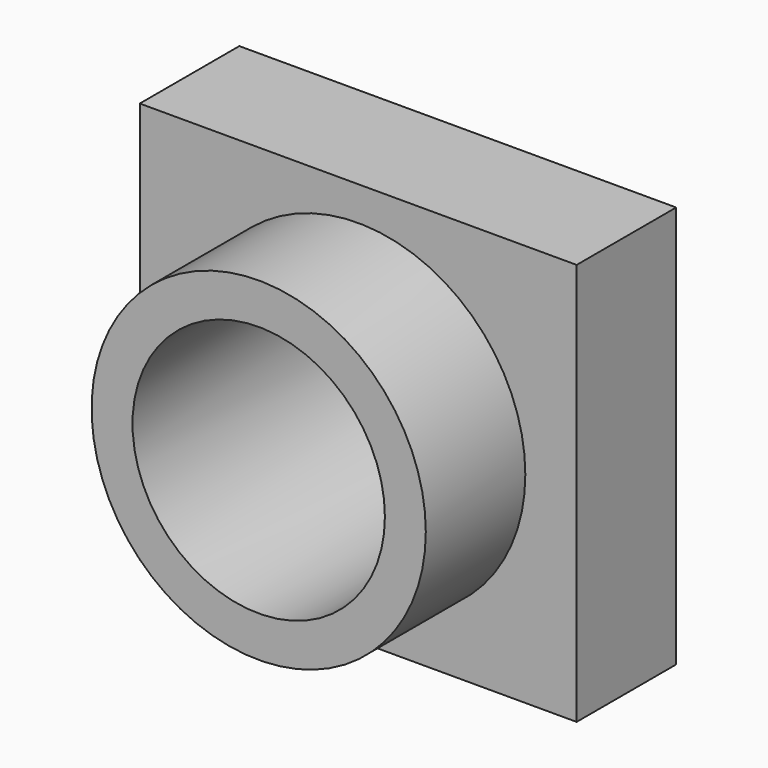
from build123d import *

# Parameters (mm, degrees)
F1_R      = 34.120668
F1_R_2    = 25.768002
F2_DEPTH  = 50.8
F0_W      = 89.206516
F0_H      = 82.153052
F3_DEPTH  = 25.4
F3_FACE_R = 25.768002
F4_DEPTH  = 25.4


with BuildPart() as f2:
    # F1 (on Front) → F2 (new body)
    with BuildSketch(Plane.XZ):
        Circle(F1_R)
        Circle(F1_R_2, mode=Mode.SUBTRACT)
    extrude(amount=F2_DEPTH)

    # F0 (on Front) → F3 (join)
    with BuildSketch(Plane.XZ):
        Rectangle(F0_W, F0_H)
    extrude(amount=F3_DEPTH)

    # F3_face (on face) → F4 (cut)
    with BuildSketch(Plane.XZ.offset(25.4)):
        Circle(F3_FACE_R)
    extrude(amount=-F4_DEPTH, mode=Mode.SUBTRACT)


solid = f2.part
